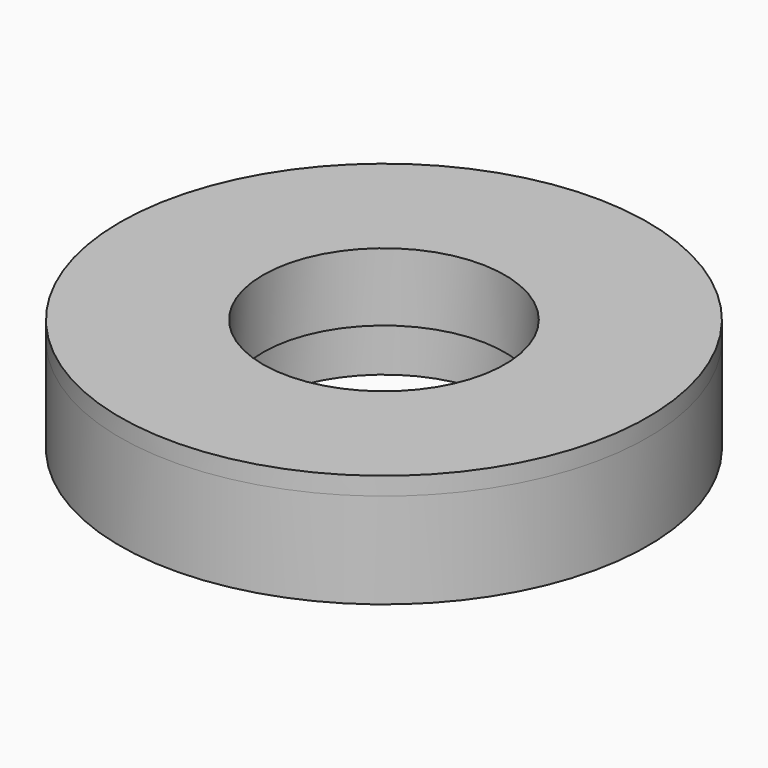
from build123d import *


with BuildPart() as f1:
    # F0 (on Front) → F1 (revolve)
    with BuildSketch(Plane.XZ):
        with BuildLine():
            Line((-8.25, 5.5), (-18, 5.5))
            Line((-18, 5.5), (-18, 4.278858))
            ThreePointArc((-18, 4.278858), (-13.23585, 2.253314), (-8.25, 0.860027))
            Line((-8.25, 0.860027), (-8.25, 5.5))
        make_face()
    revolve(axis=Axis((0, 0, 20), (0, 0, -1)))


with BuildPart() as f3:
    # F2 (on Front) → F3 (revolve)
    with BuildSketch(Plane.XZ):
        with BuildLine():
            ThreePointArc((-8.5, 0.913557), (-13.356415, 2.295807), (-18, 4.278858))
            Line((-18, 4.278858), (-18, -2.221142))
            Line((-18, -2.221142), (-8.5, -2.221142))
            Line((-8.5, -2.221142), (-8.5, 0.913557))
        make_face()
    revolve(axis=Axis((0, 0, 5.365414), (0, 0, -1)))


solid = Compound([f1.part, f3.part])
